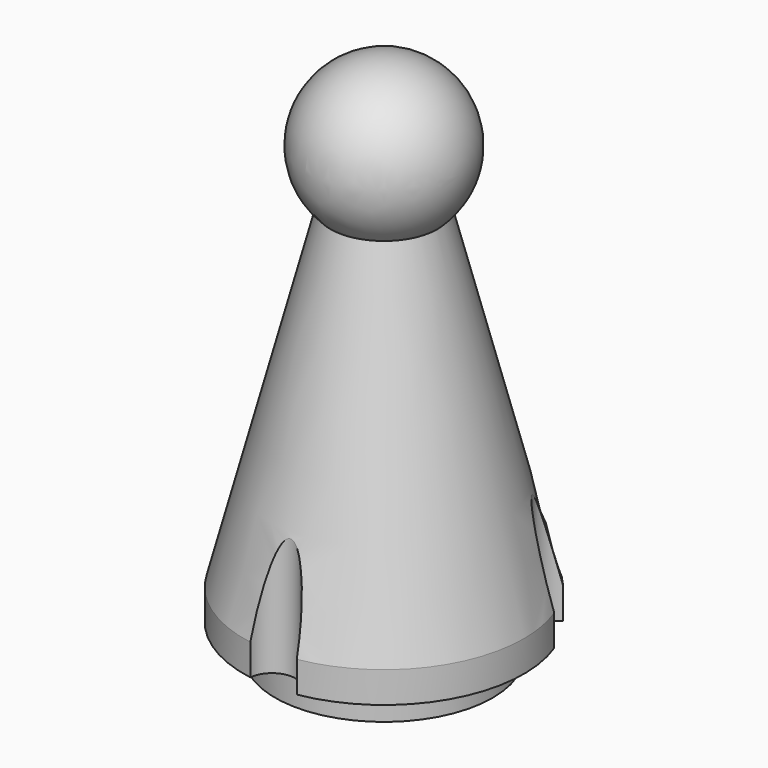
from build123d import *

# Parameters (mm, degrees)
F0_R      = 7
F1_DEPTH  = 2
F2_R      = 9
F3_DEPTH  = 2
F3_FACE_R = 9
F5_R      = 2.5
F10_DEPTH = 32.001


with BuildPart() as f1:
    # F0 (on Top) → F1 (new body)
    with BuildSketch(Plane.XY):
        Circle(F0_R)
    extrude(amount=F1_DEPTH)

    # F2 (on face) → F3 (join)
    with BuildSketch(Plane.XY.offset(2)):
        Circle(F2_R)
    extrude(amount=F3_DEPTH)

    # F3_face (on face) → F6 section 0
    with BuildSketch(Plane.XY.offset(4)):
        Circle(F3_FACE_R)
    # F5 (on offset) → F6 section 1
    with BuildSketch(Plane.XY.offset(29)):
        Circle(F5_R)
    loft()

    # F7 (on face) → F8 (revolve)
    with BuildSketch(Plane.XY.offset(29)):
        with BuildLine():
            ThreePointArc((-5, 0), (0, -5), (5, 0))
            Line((5, 0), (2.5, 0))
            ThreePointArc((2.5, 0), (0, -2.5), (-2.5, 0))
            Line((-2.5, 0), (-5, 0))
        make_face()
    revolve(axis=Axis((0, 0, 29), (1, 0, 0)))

    # F9 (on face) → F10 (cut, through all)
    with BuildSketch(Plane(origin=(0, 0, 2), x_dir=(1, 0, 0), z_dir=(0, 0, -1))):
        with BuildLine():
            ThreePointArc((1.4947825929, 8.875), (0, 9), (-1.4947825929, 8.875))
            ThreePointArc((-1.4947825929, 8.875), (0, 7.5), (1.4947825929, 8.875))
        make_face()
        with BuildLine():
            ThreePointArc((-6.2942286341, -4.5), (-6.9907073778, -3.2333691972), (-8.433366755, -3.1429803014))
            ThreePointArc((-8.433366755, -3.1429803014), (-7.7942286341, -4.5), (-6.9385841621, -5.7320196986))
            ThreePointArc((-6.9385841621, -5.7320196986), (-6.4650434122, -5.1951738244), (-6.2942286341, -4.5))
        make_face()
        with BuildLine():
            ThreePointArc((6.9385841621, -5.7320196986), (7.7942286341, -4.5), (8.433366755, -3.1429803014))
            ThreePointArc((8.433366755, -3.1429803014), (6.4951905284, -3.75), (6.9385841621, -5.7320196986))
        make_face()
    extrude(amount=-F10_DEPTH, mode=Mode.SUBTRACT)


solid = f1.part
